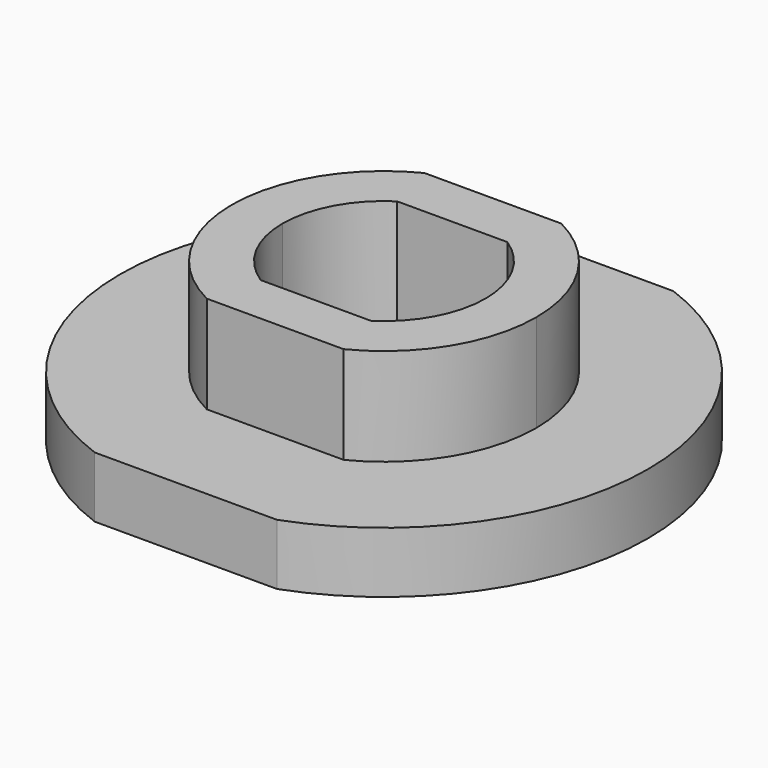
from build123d import *

# Parameters (mm, degrees)
F1_DEPTH = 3.81
F2_DEPTH = 9.906


with BuildPart() as f1:
    # F0 (on Top) → F1 (new body)
    with BuildSketch(Plane.XY):
        with BuildLine():
            Line((5.702286, 15.494), (-5.702286, 15.494))
            ThreePointArc((-5.702286, 15.494), (-16.51, 0), (-5.702286, -15.494))
            Line((-5.702286, -15.494), (5.702286, -15.494))
            ThreePointArc((5.702286, -15.494), (16.51, 0), (5.702286, 15.494))
        make_face()
        with BuildLine():
            ThreePointArc((-4.280484, -8.509), (-8.108552, -4.9977), (-9.525, 0))
            ThreePointArc((-9.525, 0), (-8.108552, 4.9977), (-4.280484, 8.509))
            Line((-4.280484, 8.509), (4.280484, 8.509))
            ThreePointArc((4.280484, 8.509), (8.108552, 4.9977), (9.525, 0))
            ThreePointArc((9.525, 0), (8.108552, -4.9977), (4.280484, -8.509))
            Line((4.280484, -8.509), (-4.280484, -8.509))
        make_face(mode=Mode.SUBTRACT)
    extrude(amount=F1_DEPTH)

    # F0 (on Top) → F2 (join)
    with BuildSketch(Plane.XY):
        with BuildLine():
            ThreePointArc((-3.445424, -5.334), (-5.57678, -3.03678), (-6.35, 0))
            Line((-6.35, 0), (-9.525, 0))
            ThreePointArc((-9.525, 0), (-8.108552, -4.9977), (-4.280484, -8.509))
            Line((-4.280484, -8.509), (4.280484, -8.509))
            ThreePointArc((4.280484, -8.509), (8.108552, -4.9977), (9.525, 0))
            Line((9.525, 0), (6.35, 0))
            ThreePointArc((6.35, 0), (5.57678, -3.03678), (3.445424, -5.334))
            Line((3.445424, -5.334), (-3.445424, -5.334))
        make_face()
        with BuildLine():
            ThreePointArc((-6.35, 0), (-5.57678, 3.03678), (-3.445424, 5.334))
            Line((-3.445424, 5.334), (3.445424, 5.334))
            ThreePointArc((3.445424, 5.334), (5.57678, 3.03678), (6.35, 0))
            Line((6.35, 0), (9.525, 0))
            ThreePointArc((9.525, 0), (8.108552, 4.9977), (4.280484, 8.509))
            Line((4.280484, 8.509), (-4.280484, 8.509))
            ThreePointArc((-4.280484, 8.509), (-8.108552, 4.9977), (-9.525, 0))
            Line((-9.525, 0), (-6.35, 0))
        make_face()
    extrude(amount=F2_DEPTH)


solid = f1.part
